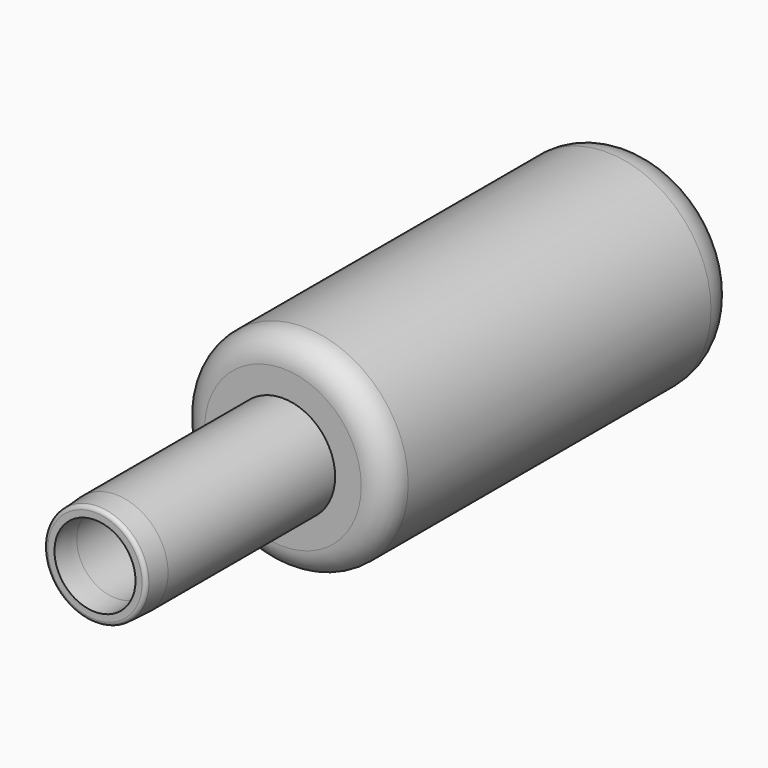
from build123d import *

# Parameters (mm, degrees)
F0_R        = 2
F1_DEPTH    = 8
F2_T        = -0.5
F1_FACE_R   = 2
F1_FACE_R_2 = 1.5
F3_DEPTH    = 1
F3_TAPER    = 3
F4_R        = 0.15
F5_R        = 4
F6_DEPTH    = 17
F7_R        = 1
F8_R        = 1.5


with BuildPart() as f1:
    # F0 (on Front) → F1 (new body)
    with BuildSketch(Plane.XZ):
        Circle(F0_R)
    extrude(amount=F1_DEPTH)

    # F2
    f2_openings = [f1.faces().sort_by_distance(p)[0] for p in [
        (0, -8, 0),
    ]]
    offset(amount=F2_T, openings=f2_openings)

    # F1_face (on face) → F3 (join)
    with BuildSketch(Plane.XZ.offset(8)):
        Circle(F1_FACE_R)
        Circle(F1_FACE_R_2, mode=Mode.SUBTRACT)
    extrude(amount=F3_DEPTH, taper=F3_TAPER)

    # F4
    f4_edges = [f1.edges().sort_by_distance(p)[0] for p in [
        (-1.947592, -9, 0),
    ]]
    fillet(f4_edges, radius=F4_R)

    # F5 (on Front) → F6 (join)
    with BuildSketch(Plane.XZ):
        Circle(F5_R)
    extrude(amount=-F6_DEPTH)

    # F7
    f7_edges = [f1.edges().sort_by_distance(p)[0] for p in [
        (-4, 0, 0),
    ]]
    fillet(f7_edges, radius=F7_R)

    # F8
    f8_edges = [f1.edges().sort_by_distance(p)[0] for p in [
        (-4, 17, 0),
    ]]
    fillet(f8_edges, radius=F8_R)


solid = f1.part
